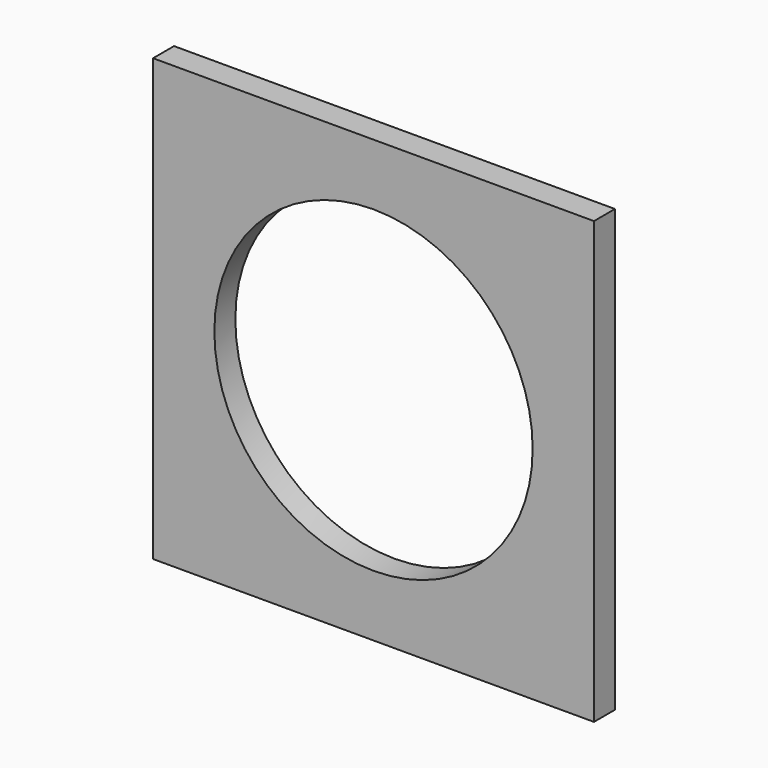
from build123d import *

# Parameters (mm, degrees)
F0_W     = 320
F0_H     = 320
F0_R     = 115.5
F1_DEPTH = 19.05


with BuildPart() as f1:
    # F0 (on Front) → F1 (new body)
    with BuildSketch(Plane.XZ):
        Rectangle(F0_W, F0_H)
        Circle(F0_R, mode=Mode.SUBTRACT)
    extrude(amount=-F1_DEPTH)


solid = f1.part
